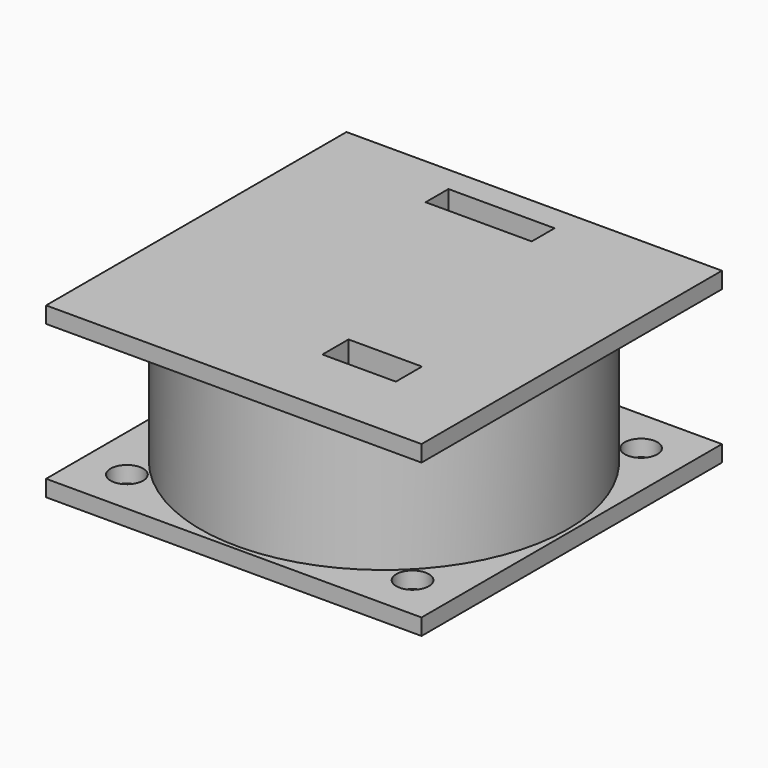
from build123d import *

# Parameters (mm, degrees)
F0_W      = 46
F0_H      = 46
F1_DEPTH  = 2
F2_R      = 2
F3_DEPTH  = 25.4
F4_R      = 22.5
F5_DEPTH  = 20
F6_R      = 20
F7_DEPTH  = 16
F9_W      = 46
F9_H      = 46
F10_DEPTH = 2
F12_W     = 13
F12_H     = 3.5
F13_DEPTH = 4.7
F14_W     = 9
F14_H     = 4
F15_DEPTH = 2.7
F16_R     = 2
F17_DEPTH = 2
F18_R     = 2
F19_DEPTH = 2
F20_R     = 2
F21_DEPTH = 2


with BuildPart() as f1:
    # F0 (on Top) → F1 (new body)
    with BuildSketch(Plane.XY):
        with Locations((23, -23)):
            Rectangle(F0_W, F0_H)
    extrude(amount=F1_DEPTH)

    # F2 (on face) → F3 (cut)
    with BuildSketch(Plane.XY.offset(2)):
        with Locations((5.5, -5.5)):
            Circle(F2_R)
    extrude(amount=-F3_DEPTH, mode=Mode.SUBTRACT)

    # F4 (on face) → F5 (join)
    with BuildSketch(Plane(origin=(0, 0, 0), x_dir=(1, 0, 0), z_dir=(0, 0, -1))):
        with Locations((23, 23)):
            Circle(F4_R)
    extrude(amount=-F5_DEPTH)

    # F6 (on face) → F7 (cut, symmetric)
    with BuildSketch(Plane.XY.offset(2)):
        with Locations((23, -23)):
            Circle(F6_R)
    extrude(amount=F7_DEPTH, both=True, mode=Mode.SUBTRACT)

    # F9 (on offset) → F10 (join)
    with BuildSketch(Plane.XY.offset(18.7)):
        with Locations((23, -23)):
            Rectangle(F9_W, F9_H)
    extrude(amount=F10_DEPTH)

    # F12 (on face) → F13 (cut)
    with BuildSketch(Plane.XY.offset(20.7)):
        with Locations((21.5, -4.8802558407)):
            Rectangle(F12_W, F12_H)
    extrude(amount=-F13_DEPTH, mode=Mode.SUBTRACT)

    # F14 (on face) → F15 (cut)
    with BuildSketch(Plane.XY.offset(20.7)):
        with Locations((31.5, -35.4355278909)):
            Rectangle(F14_W, F14_H)
    extrude(amount=-F15_DEPTH, mode=Mode.SUBTRACT)

    # F16 (on face) → F17 (cut)
    with BuildSketch(Plane(origin=(0, 0, 0), x_dir=(1, 0, 0), z_dir=(0, 0, -1))):
        with Locations((40.5, 40.5)):
            Circle(F16_R)
    extrude(amount=-F17_DEPTH, mode=Mode.SUBTRACT)

    # F18 (on face) → F19 (cut)
    with BuildSketch(Plane(origin=(0, 0, 0), x_dir=(1, 0, 0), z_dir=(0, 0, -1))):
        with Locations((40.5, 5.5)):
            Circle(F18_R)
    extrude(amount=-F19_DEPTH, mode=Mode.SUBTRACT)

    # F20 (on face) → F21 (cut)
    with BuildSketch(Plane(origin=(0, 0, 0), x_dir=(1, 0, 0), z_dir=(0, 0, -1))):
        with Locations((5.5, 40.5)):
            Circle(F20_R)
    extrude(amount=-F21_DEPTH, mode=Mode.SUBTRACT)


solid = f1.part
